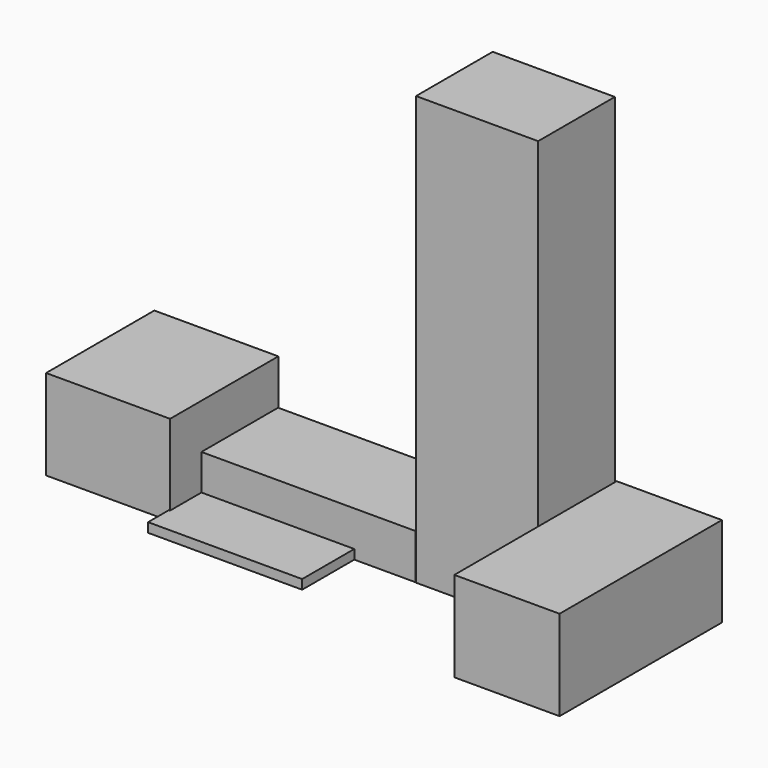
from build123d import *

# Parameters (mm, degrees)
F1_W      = 21.263506
F1_H      = 1828.8
F1_W_2    = 1655.136494
F2_DEPTH  = 1219.2
F4_W      = 1651
F4_H      = 1295.4
F5_DEPTH  = 5791.2
F3_W      = 2895.6
F3_H      = 1295.4
F6_DEPTH  = 609.6
F7_W      = 1422.4
F7_H      = 2743.2
F8_DEPTH  = 1219.2
F9_W      = 2082.8
F9_H      = 2184.4
F10_DEPTH = 127


with BuildPart() as f2:
    # F1 (on face) → F2 (new body)
    with BuildSketch(Plane.XY):
        with Locations((-3827.949094, 4279.508967)):
            Rectangle(F1_W, F1_H)
        with Locations((-2989.749094, 4279.508967)):
            Rectangle(F1_W_2, F1_H)
    extrude(amount=F2_DEPTH)

    # F3 (on face) → F6 (join)
    with BuildSketch(Plane.XY):
        with Locations((-717.022002, 4542.333493)):
            Rectangle(F3_W, F3_H)
    extrude(amount=F6_DEPTH)

    # F9 (on face) → F10 (join)
    with BuildSketch(Plane.XY):
        with Locations((-1137.278513, 4105.700929)):
            Rectangle(F9_W, F9_H)
    extrude(amount=F10_DEPTH)


with BuildPart() as f5:
    # F4 (on face) → F5 (new body)
    with BuildSketch(Plane.XY):
        with Locations((1567.599952, 4537.774311)):
            Rectangle(F4_W, F4_H)
    extrude(amount=F5_DEPTH)


with BuildPart() as f8:
    # F7 (on face) → F8 (new body)
    with BuildSketch(Plane.XY):
        with Locations((3120.660663, 3825.003185)):
            Rectangle(F7_W, F7_H)
    extrude(amount=F8_DEPTH)


solid = Compound([f2.part, f5.part, f8.part])
